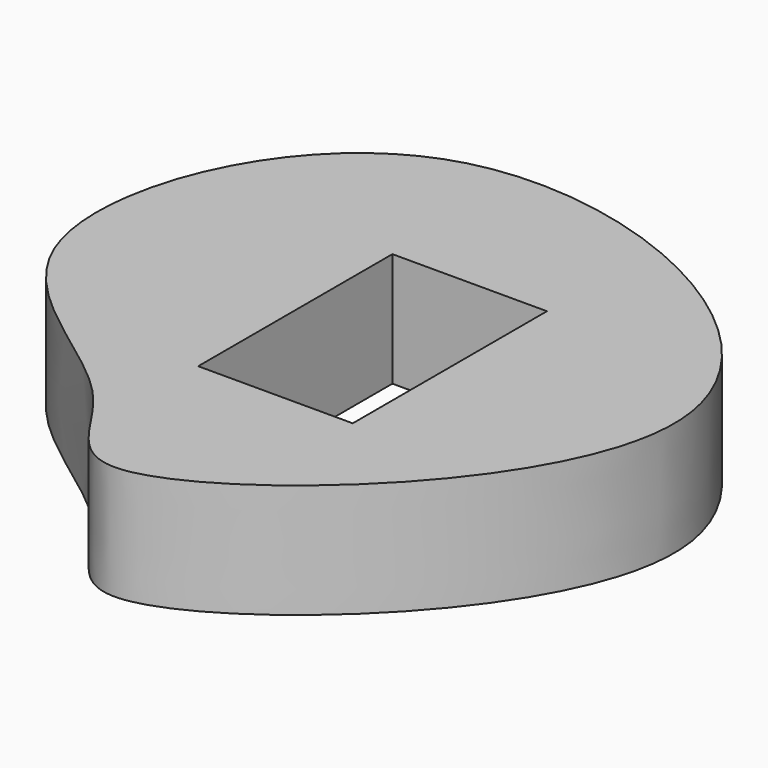
from build123d import *

# Parameters (mm, degrees)
F0_W     = 33.8758872822
F0_H     = 53.2057099044
F1_DEPTH = 25


with BuildPart() as f1:
    # F0 (on Top) → F1 (new body)
    with BuildSketch(Plane.XY):
        with BuildLine():
            add(Edge.make_bspline(
                [(-31.2671177089, -38.1289310753), (-41.6002543224, -38.6900095189), (-47.6072115156, -12.8294524546), (-110.4833563577, 11.7230651936), (-69.8140630358, 119.8488357054), (82.8618572958, 44.9501073685), (-11.913935971, -37.0780736742), (-31.2671177089, -38.1289310753)],
                knots=[0, 0, 0, 0, 0.1276718683, 0.3084092577, 0.5165513231, 0.7608802668, 1, 1, 1, 1], degree=3))
        make_face()
        with Locations((-27.3220329545, 26.6028549522)):
            Rectangle(F0_W, F0_H, mode=Mode.SUBTRACT)
    extrude(amount=F1_DEPTH)


solid = f1.part
